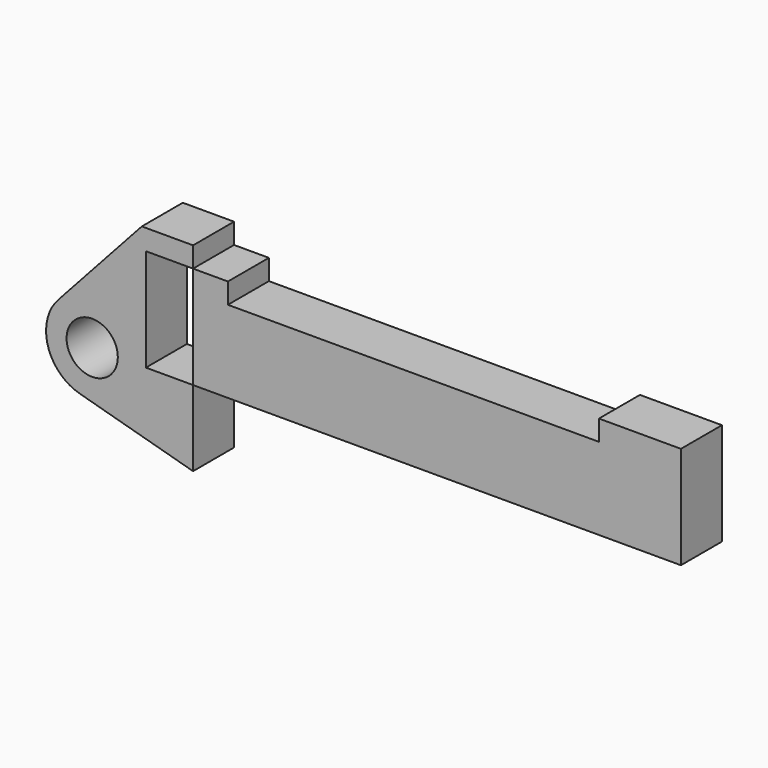
from build123d import *

# Parameters (mm, degrees)
F0_R     = 3.175
F1_DEPTH = 6.35


with BuildPart() as f1:
    # F0 (on Front) → F1 (new body)
    with BuildSketch(Plane.XZ):
        with BuildLine():
            Line((-0.9398, 0), (0, 0))
            Line((0, 0), (0, 12.7))
            Line((0, 12.7), (5.842, 12.7))
            Line((5.842, 12.7), (5.842, 15.24))
            Line((5.842, 15.24), (-0.508, 15.24))
            Line((-0.508, 15.24), (-10.88063, 3.847543))
            ThreePointArc((-10.88063, 3.847543), (-4.591961, 5.329721), (-0.9398, 0))
        make_face()
        with BuildLine():
            ThreePointArc((-8.182663, -5.506983), (-3.195791, -4.549339), (-0.9398, 0))
            ThreePointArc((-0.9398, 0), (-4.591961, 5.329721), (-10.88063, 3.847543))
            ThreePointArc((-10.88063, 3.847543), (-12.145978, -1.583727), (-8.182663, -5.506983))
        make_face()
        with Locations((-6.6548, 0)):
            Circle(F0_R, mode=Mode.SUBTRACT)
        with BuildLine():
            Line((5.842, 0), (0, 0))
            Line((0, 0), (-0.9398, 0))
            ThreePointArc((-0.9398, 0), (-3.195791, -4.549339), (-8.182663, -5.506983))
            Line((-8.182663, -5.506983), (5.842, -9.398))
            Line((5.842, -9.398), (5.842, 0))
        make_face()
        Polygon((5.842, 12.7), (5.842, 0), (66.294, 0), (66.294, 12.7), (56.134, 12.7), (56.134, 10.16), (10.16, 10.16), (10.16, 12.7), align=None)
    extrude(amount=F1_DEPTH)


solid = f1.part
